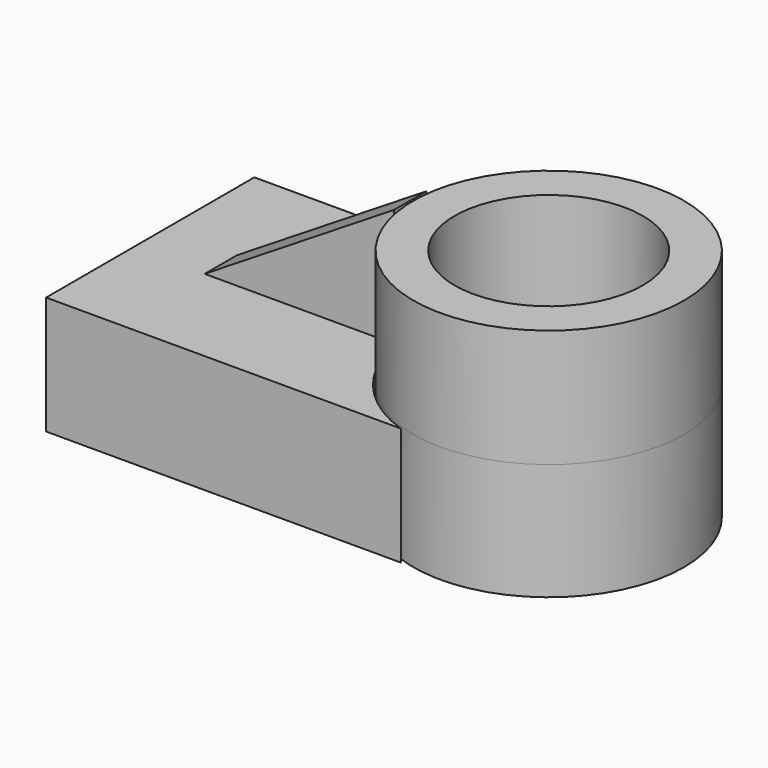
from build123d import *

# Parameters (mm, degrees)
F1_DEPTH  = 25.4
F2_R      = 29.122781
F3_DEPTH  = 25.146
F3_FACE_R = 29.122781
F4_DEPTH  = 25.4
F6_DEPTH  = 25.4
F8_DEPTH  = 47.498
F9_R      = 20.270856
F10_DEPTH = 50.8


with BuildPart() as f1:
    # F0 (on Top) → F1 (new body)
    with BuildSketch(Plane.XY):
        with BuildLine():
            Line((0, 0), (-76.369263, 0))
            Line((-76.369263, 0), (-76.369263, -56.042802))
            Line((-76.369263, -56.042802), (0, -56.042802))
            ThreePointArc((0, -56.042802), (-20.135662, -28.021401), (0, 0))
        make_face()
    extrude(amount=F1_DEPTH)

    # F5 (on face) → F6 (join)
    with BuildSketch(Plane.XY.offset(25.4)):
        Polygon((-20.135662, -23.978902), (-60.935609, -23.978902), (-60.935609, -32.654684), (-20.135662, -32.654684), (-20.135662, -28.021401), align=None)
    extrude(amount=F6_DEPTH)

    # F7 (on face) → F8 (cut)
    with BuildSketch(Plane.XZ.offset(32.654684)):
        Polygon((-60.935609, 50.8), (-60.935609, 25.4), (-20.135662, 50.8), align=None)
    extrude(amount=-F8_DEPTH, mode=Mode.SUBTRACT)


with BuildPart() as f3:
    # F2 (on face) → F3 (new body)
    with BuildSketch(Plane.XY.offset(25.4)):
        with Locations((9.429886, -28.021401)):
            Circle(F2_R)
    extrude(amount=-F3_DEPTH)

    # F3_face (on face) → F4 (join)
    with BuildSketch(Plane(origin=(9.429886, -28.021401, 25.4), x_dir=(1, 0, 0), z_dir=(0, 0, 1))):
        Circle(F3_FACE_R)
    extrude(amount=F4_DEPTH)

    # F9 (on face) → F10 (cut)
    with BuildSketch(Plane.XY.offset(50.8)):
        with Locations((9.429886, -28.021401)):
            Circle(F9_R)
    extrude(amount=-F10_DEPTH, mode=Mode.SUBTRACT)


solid = Compound([f1.part, f3.part])
